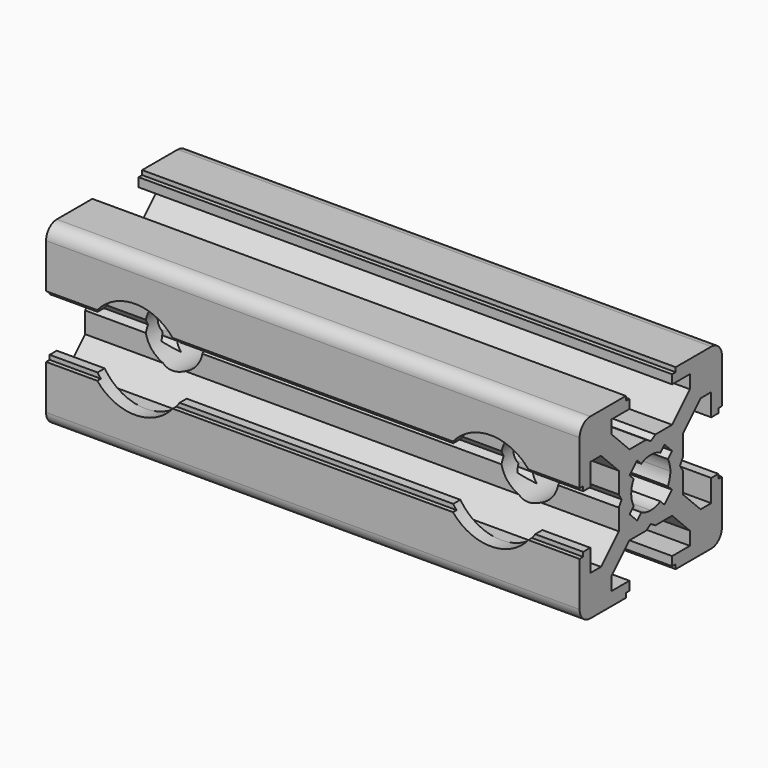
from build123d import *

# Parameters (mm, degrees)
PAD_DEPTH       = 60
SKETCH001_R     = 3.25
POCKET_DEPTH    = 21
SKETCH002_R     = 5.5
POCKET001_DEPTH = 2


with BuildPart() as part:
    # Sketch → Pad (new body)
    with BuildSketch(Plane.YZ):
        with BuildLine():
            Line((0, 4.1), (0.65, 4.5))
            Line((0.65, 4.5), (3, 4.5))
            Line((3, 4.5), (5.5, 7))
            Line((5.5, 7), (5.5, 8.5))
            Line((5.5, 8.5), (3, 8.5))
            Line((3, 8.5), (3, 9.5))
            Line((3, 9.5), (3.5, 9.5))
            Line((3.5, 9.5), (3.5, 10))
            Line((3.5, 10), (8.5, 10))
            ThreePointArc((10, 8.5), (9.56066, 9.56066), (8.5, 10))
            Line((10, 8.5), (10, 3.5))
            Line((10, 3.5), (9.5, 3.5))
            Line((9.5, 3.5), (9.5, 3))
            Line((9.5, 3), (8.5, 3))
            Line((8.5, 3), (8.5, 5.5))
            Line((8.5, 5.5), (7, 5.5))
            Line((7, 5.5), (4.5, 3))
            Line((4.5, 3), (4.5, 0.65))
            Line((4.5, 0.65), (4.1, 0))
            Line((4.5, -0.65), (4.1, 0))
            Line((4.5, -3), (4.5, -0.65))
            Line((7, -5.5), (4.5, -3))
            Line((8.5, -5.5), (7, -5.5))
            Line((8.5, -3), (8.5, -5.5))
            Line((9.5, -3), (8.5, -3))
            Line((9.5, -3.5), (9.5, -3))
            Line((10, -3.5), (9.5, -3.5))
            Line((10, -8.5), (10, -3.5))
            ThreePointArc((8.5, -10), (9.56066, -9.56066), (10, -8.5))
            Line((3.5, -10), (8.5, -10))
            Line((3.5, -9.5), (3.5, -10))
            Line((3, -9.5), (3.5, -9.5))
            Line((3, -8.5), (3, -9.5))
            Line((5.5, -8.5), (3, -8.5))
            Line((5.5, -7), (5.5, -8.5))
            Line((3, -4.5), (5.5, -7))
            Line((0.65, -4.5), (3, -4.5))
            Line((0, -4.1), (0.65, -4.5))
            Line((0, -4.1), (-0.65, -4.5))
            Line((-0.65, -4.5), (-3, -4.5))
            Line((-3, -4.5), (-5.5, -7))
            Line((-5.5, -7), (-5.5, -8.5))
            Line((-5.5, -8.5), (-3, -8.5))
            Line((-3, -8.5), (-3, -9.5))
            Line((-3, -9.5), (-3.5, -9.5))
            Line((-3.5, -9.5), (-3.5, -10))
            Line((-3.5, -10), (-8.5, -10))
            ThreePointArc((-10, -8.5), (-9.56066, -9.56066), (-8.5, -10))
            Line((-10, -8.5), (-10, -3.5))
            Line((-10, -3.5), (-9.5, -3.5))
            Line((-9.5, -3.5), (-9.5, -3))
            Line((-9.5, -3), (-8.5, -3))
            Line((-8.5, -3), (-8.5, -5.5))
            Line((-8.5, -5.5), (-7, -5.5))
            Line((-7, -5.5), (-4.5, -3))
            Line((-4.5, -3), (-4.5, -0.65))
            Line((-4.5, -0.65), (-4.1, 0))
            Line((-4.5, 0.65), (-4.1, 0))
            Line((-4.5, 3), (-4.5, 0.65))
            Line((-7, 5.5), (-4.5, 3))
            Line((-8.5, 5.5), (-7, 5.5))
            Line((-8.5, 3), (-8.5, 5.5))
            Line((-9.5, 3), (-8.5, 3))
            Line((-9.5, 3.5), (-9.5, 3))
            Line((-10, 3.5), (-9.5, 3.5))
            Line((-10, 8.5), (-10, 3.5))
            ThreePointArc((-8.5, 10), (-9.56066, 9.56066), (-10, 8.5))
            Line((-3.5, 10), (-8.5, 10))
            Line((-3.5, 9.5), (-3.5, 10))
            Line((-3, 9.5), (-3.5, 9.5))
            Line((-3, 8.5), (-3, 9.5))
            Line((-5.5, 8.5), (-3, 8.5))
            Line((-5.5, 7), (-5.5, 8.5))
            Line((-3, 4.5), (-5.5, 7))
            Line((-0.65, 4.5), (-3, 4.5))
            Line((0, 4.1), (-0.65, 4.5))
        make_face()
        with BuildLine():
            Line((1.340499, 2.401159), (1.923239, 2.983899))
            Line((1.923239, 2.983899), (2.983899, 1.923239))
            Line((2.983899, 1.923239), (2.401159, 1.340499))
            ThreePointArc((2.75, 0), (2.661361, 0.692573), (2.401159, 1.340499))
            ThreePointArc((2.401164, -1.34049), (2.661362, -0.692568), (2.75, 0))
            Line((2.983904, -1.92323), (2.401164, -1.34049))
            Line((1.923247, -2.983894), (2.983904, -1.92323))
            Line((1.340507, -2.401154), (1.923247, -2.983894))
            ThreePointArc((0, -2.75), (0.692577, -2.66136), (1.340507, -2.401154))
            ThreePointArc((-1.340507, -2.401154), (-0.692577, -2.66136), (0, -2.75))
            Line((-1.340507, -2.401154), (-1.923247, -2.983894))
            Line((-1.923247, -2.983894), (-2.983904, -1.92323))
            Line((-2.983904, -1.92323), (-2.401164, -1.34049))
            ThreePointArc((-2.75, 0), (-2.661362, -0.692568), (-2.401164, -1.34049))
            ThreePointArc((-2.401159, 1.340499), (-2.661361, 0.692572), (-2.75, 0))
            Line((-2.983899, 1.923239), (-2.401159, 1.340499))
            Line((-1.923239, 2.983899), (-2.983899, 1.923239))
            Line((-1.340499, 2.401159), (-1.923239, 2.983899))
            ThreePointArc((0, 2.75), (-0.692573, 2.661361), (-1.340499, 2.401159))
            ThreePointArc((1.340499, 2.401159), (0.692573, 2.661361), (0, 2.75))
        make_face(mode=Mode.SUBTRACT)
    extrude(amount=PAD_DEPTH)

    # Sketch001 → Pocket (cut)
    with BuildSketch(Plane.XZ.offset(10)):
        with Locations((10, 0)):
            Circle(SKETCH001_R)
        with Locations((50, 0)):
            Circle(SKETCH001_R)
    extrude(amount=-POCKET_DEPTH, mode=Mode.SUBTRACT)

    # Sketch002 → Pocket001 (cut)
    with BuildSketch(Plane.XZ.offset(10)):
        with Locations((10, 0)):
            Circle(SKETCH002_R)
        with Locations((50, 0)):
            Circle(SKETCH002_R)
    extrude(amount=-POCKET001_DEPTH, mode=Mode.SUBTRACT)


solid = part.part
